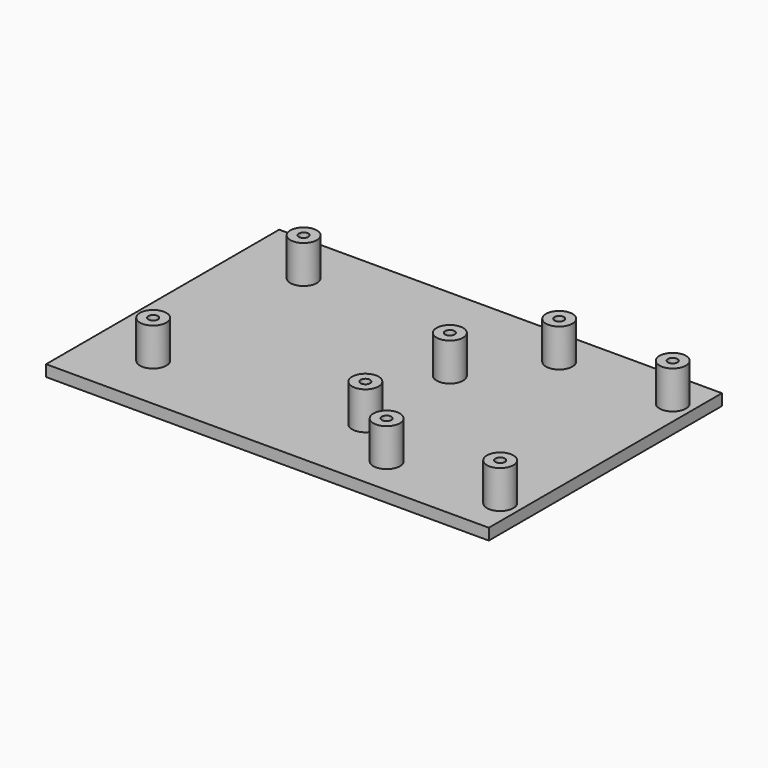
from build123d import *

# Parameters (mm, degrees)
F0_W     = 117
F0_H     = 77
F0_R     = 3.5
F0_R_2   = 1.25
F1_DEPTH = 3
F2_DEPTH = 10


with BuildPart() as f1:
    # F0 (on Top) → F1 (new body)
    with BuildSketch(Plane.XY):
        with Locations((1.2832747996, -1.2006596088)):
            Rectangle(F0_W, F0_H)
        with Locations((-40.9167252004, -24.7006596088)):
            Circle(F0_R, mode=Mode.SUBTRACT)
        with Locations((24.7832747996, -29.7006596088)):
            Circle(F0_R, mode=Mode.SUBTRACT)
        with Locations((54.7832747996, -29.7006596088)):
            Circle(F0_R, mode=Mode.SUBTRACT)
        with Locations((11.0832747996, -19.6006596088)):
            Circle(F0_R, mode=Mode.SUBTRACT)
        with Locations((-39.7167252004, 23.4993403912)):
            Circle(F0_R, mode=Mode.SUBTRACT)
        with Locations((11.0832747996, 8.2993403912)):
            Circle(F0_R, mode=Mode.SUBTRACT)
        with Locations((24.7832747996, 27.2993403912)):
            Circle(F0_R, mode=Mode.SUBTRACT)
        with Locations((54.7832747996, 27.2993403912)):
            Circle(F0_R, mode=Mode.SUBTRACT)
        with Locations((-39.7167252004, 23.4993403912)):
            Circle(F0_R)
        with Locations((-39.7167252004, 23.4993403912)):
            Circle(F0_R_2, mode=Mode.SUBTRACT)
        with Locations((11.0832747996, 8.2993403912)):
            Circle(F0_R)
        with Locations((11.0832747996, 8.2993403912)):
            Circle(F0_R_2, mode=Mode.SUBTRACT)
        with Locations((11.0832747996, -19.6006596088)):
            Circle(F0_R)
        with Locations((11.0832747996, -19.6006596088)):
            Circle(F0_R_2, mode=Mode.SUBTRACT)
        with Locations((-40.9167252004, -24.7006596088)):
            Circle(F0_R)
        with Locations((-40.9167252004, -24.7006596088)):
            Circle(F0_R_2, mode=Mode.SUBTRACT)
        with Locations((24.7832747996, 27.2993403912)):
            Circle(F0_R)
        with Locations((24.7832747996, 27.2993403912)):
            Circle(F0_R_2, mode=Mode.SUBTRACT)
        with Locations((54.7832747996, 27.2993403912)):
            Circle(F0_R)
        with Locations((54.7832747996, 27.2993403912)):
            Circle(F0_R_2, mode=Mode.SUBTRACT)
        with Locations((54.7832747996, -29.7006596088)):
            Circle(F0_R)
        with Locations((54.7832747996, -29.7006596088)):
            Circle(F0_R_2, mode=Mode.SUBTRACT)
        with Locations((24.7832747996, -29.7006596088)):
            Circle(F0_R)
        with Locations((24.7832747996, -29.7006596088)):
            Circle(F0_R_2, mode=Mode.SUBTRACT)
        with Locations((11.0832747996, 8.2993403912)):
            Circle(F0_R_2)
        with Locations((11.0832747996, -19.6006596088)):
            Circle(F0_R_2)
        with Locations((-40.9167252004, -24.7006596088)):
            Circle(F0_R_2)
        with Locations((-39.7167252004, 23.4993403912)):
            Circle(F0_R_2)
        with Locations((24.7832747996, 27.2993403912)):
            Circle(F0_R_2)
        with Locations((54.7832747996, 27.2993403912)):
            Circle(F0_R_2)
        with Locations((54.7832747996, -29.7006596088)):
            Circle(F0_R_2)
        with Locations((24.7832747996, -29.7006596088)):
            Circle(F0_R_2)
    extrude(amount=-F1_DEPTH)

    # F0 (on Top) → F2 (join)
    with BuildSketch(Plane.XY):
        with Locations((-39.7167252004, 23.4993403912)):
            Circle(F0_R)
        with Locations((-39.7167252004, 23.4993403912)):
            Circle(F0_R_2, mode=Mode.SUBTRACT)
        with Locations((11.0832747996, 8.2993403912)):
            Circle(F0_R)
        with Locations((11.0832747996, 8.2993403912)):
            Circle(F0_R_2, mode=Mode.SUBTRACT)
        with Locations((11.0832747996, -19.6006596088)):
            Circle(F0_R)
        with Locations((11.0832747996, -19.6006596088)):
            Circle(F0_R_2, mode=Mode.SUBTRACT)
        with Locations((-40.9167252004, -24.7006596088)):
            Circle(F0_R)
        with Locations((-40.9167252004, -24.7006596088)):
            Circle(F0_R_2, mode=Mode.SUBTRACT)
        with Locations((24.7832747996, -29.7006596088)):
            Circle(F0_R)
        with Locations((24.7832747996, -29.7006596088)):
            Circle(F0_R_2, mode=Mode.SUBTRACT)
        with Locations((54.7832747996, -29.7006596088)):
            Circle(F0_R)
        with Locations((54.7832747996, -29.7006596088)):
            Circle(F0_R_2, mode=Mode.SUBTRACT)
        with Locations((24.7832747996, 27.2993403912)):
            Circle(F0_R)
        with Locations((24.7832747996, 27.2993403912)):
            Circle(F0_R_2, mode=Mode.SUBTRACT)
        with Locations((54.7832747996, 27.2993403912)):
            Circle(F0_R)
        with Locations((54.7832747996, 27.2993403912)):
            Circle(F0_R_2, mode=Mode.SUBTRACT)
    extrude(amount=F2_DEPTH)


solid = f1.part
